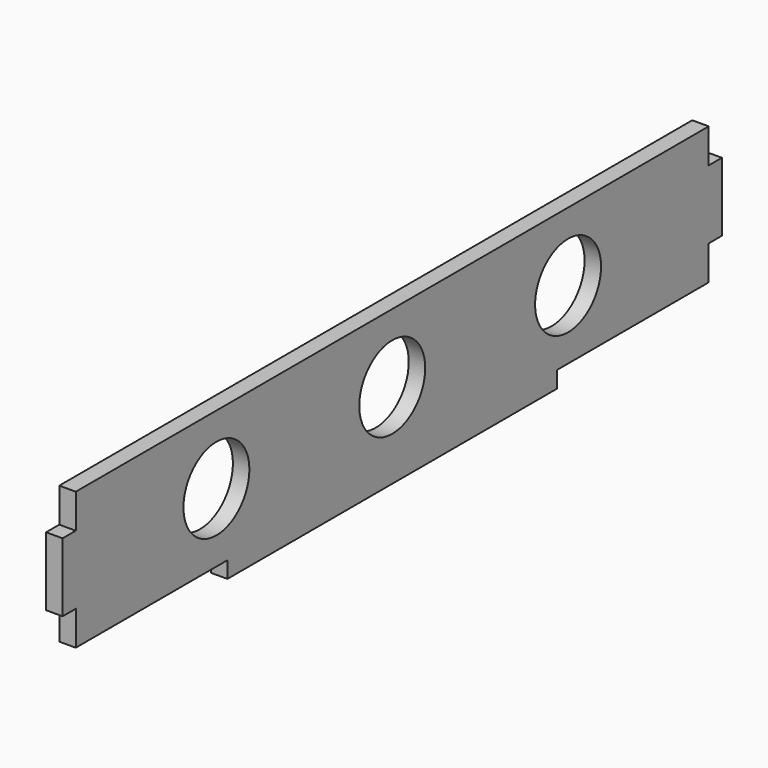
from build123d import *

# Parameters (mm, degrees)
F0_W     = 150
F0_H     = 6
F0_W_2   = 6
F0_H_2   = 25
F1_DEPTH = 6
F2_R     = 15
F3_DEPTH = 6


with BuildPart() as f1:
    # F0 (on Right) → F1 (new body)
    with BuildSketch(Plane.YZ):
        Polygon((-75, 25), (-144, 25), (-144, 12.5), (-138, 12.5), (-138, -12.5), (-144, -12.5), (-144, -25), (-75, -25), (-75, -19), (75, -19), (75, -25), (144, -25), (144, -12.5), (138, -12.5), (138, 12.5), (144, 12.5), (144, 25), (75, 25), (75, 19), (-75, 19), align=None)
        with Locations((0, 22)):
            Rectangle(F0_W, F0_H)
        with Locations((0, -28)):
            Rectangle(F0_W, F0_H)
        with Locations((0, -22)):
            Rectangle(F0_W, F0_H)
        with Locations((-141, 0)):
            Rectangle(F0_W_2, F0_H_2)
        with Locations((-147, 0)):
            Rectangle(F0_W_2, F0_H_2)
        with Locations((147, 0)):
            Rectangle(F0_W_2, F0_H_2)
        with Locations((141, 0)):
            Rectangle(F0_W_2, F0_H_2)
    extrude(amount=F1_DEPTH)

    # F2 (on face) → F3 (cut, through all)
    with BuildSketch(Plane.YZ.offset(6)):
        Circle(F2_R)
        with Locations((-80, 0)):
            Circle(F2_R)
        with Locations((80, 0)):
            Circle(F2_R)
    extrude(amount=-F3_DEPTH, mode=Mode.SUBTRACT)


solid = f1.part
